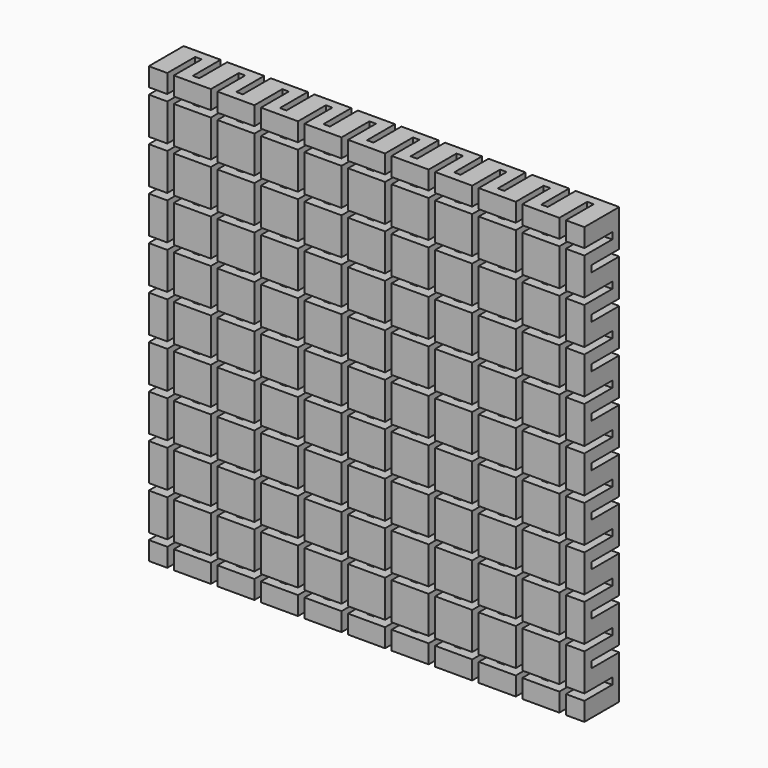
from build123d import *

# Parameters (mm, degrees)
F0_W      = 200
F0_H      = 200
F1_DEPTH  = 20
F2_W      = 3
F2_H      = 200
F3_DEPTH  = 16
F4_W      = 3
F4_H      = 200
F5_DEPTH  = 16
F7_W      = 200
F7_H      = 3
F8_DEPTH  = 16
F9_W      = 200
F9_H      = 3
F10_DEPTH = 16


with BuildPart() as f1:
    # F0 (on Front) → F1 (new body)
    with BuildSketch(Plane.XZ):
        Rectangle(F0_W, F0_H)
    extrude(amount=F1_DEPTH)

    # F2 (on face) → F3 (cut)
    with BuildSketch(Plane.XZ.offset(20)):
        with Locations((-90, 0)):
            Rectangle(F2_W, F2_H)
        with Locations((-70, 0)):
            Rectangle(F2_W, F2_H)
        with Locations((-50, 0)):
            Rectangle(F2_W, F2_H)
        with Locations((-30, 0)):
            Rectangle(F2_W, F2_H)
        with Locations((-10, 0)):
            Rectangle(F2_W, F2_H)
        with Locations((10, 0)):
            Rectangle(F2_W, F2_H)
        with Locations((30, 0)):
            Rectangle(F2_W, F2_H)
        with Locations((50, 0)):
            Rectangle(F2_W, F2_H)
        with Locations((70, 0)):
            Rectangle(F2_W, F2_H)
        with Locations((90, 0)):
            Rectangle(F2_W, F2_H)
    extrude(amount=-F3_DEPTH, mode=Mode.SUBTRACT)

    # F4 (on face) → F5 (cut)
    with BuildSketch(Plane(origin=(0, 0, 0), x_dir=(-1, 0, 0), z_dir=(0, 1, 0))):
        with Locations((-58.5, 0)):
            Rectangle(F4_W, F4_H)
        with Locations((-38.5, 0)):
            Rectangle(F4_W, F4_H)
        with Locations((-18.5, 0)):
            Rectangle(F4_W, F4_H)
        with Locations((1.5, 0)):
            Rectangle(F4_W, F4_H)
        with Locations((21.5, 0)):
            Rectangle(F4_W, F4_H)
        with Locations((41.5, 0)):
            Rectangle(F4_W, F4_H)
        with Locations((61.5, 0)):
            Rectangle(F4_W, F4_H)
        with Locations((81.5, 0)):
            Rectangle(F4_W, F4_H)
        with Locations((-78.5, 0)):
            Rectangle(F4_W, F4_H)
    extrude(amount=-F5_DEPTH, mode=Mode.SUBTRACT)

    # F7 (on offset) → F8 (cut)
    with BuildSketch(Plane.XZ.offset(20)):
        with Locations((0, 90)):
            Rectangle(F7_W, F7_H)
        with Locations((0, 70)):
            Rectangle(F7_W, F7_H)
        with Locations((0, 50)):
            Rectangle(F7_W, F7_H)
        with Locations((0, 30)):
            Rectangle(F7_W, F7_H)
        with Locations((0, 10)):
            Rectangle(F7_W, F7_H)
        with Locations((0, -10)):
            Rectangle(F7_W, F7_H)
        with Locations((0, -30)):
            Rectangle(F7_W, F7_H)
        with Locations((0, -50)):
            Rectangle(F7_W, F7_H)
        with Locations((0, -70)):
            Rectangle(F7_W, F7_H)
        with Locations((0, -90)):
            Rectangle(F7_W, F7_H)
    extrude(amount=-F8_DEPTH, mode=Mode.SUBTRACT)

    # F9 (on Front) → F10 (cut)
    with BuildSketch(Plane.XZ):
        with Locations((0, 81.5)):
            Rectangle(F9_W, F9_H)
        with Locations((0, 61.5)):
            Rectangle(F9_W, F9_H)
        with Locations((0, 41.5)):
            Rectangle(F9_W, F9_H)
        with Locations((0, 21.5)):
            Rectangle(F9_W, F9_H)
        with Locations((0, 1.5)):
            Rectangle(F9_W, F9_H)
        with Locations((0, -18.5)):
            Rectangle(F9_W, F9_H)
        with Locations((0, -38.5)):
            Rectangle(F9_W, F9_H)
        with Locations((0, -58.5)):
            Rectangle(F9_W, F9_H)
        with Locations((0, -78.5)):
            Rectangle(F9_W, F9_H)
    extrude(amount=F10_DEPTH, mode=Mode.SUBTRACT)


solid = f1.part
